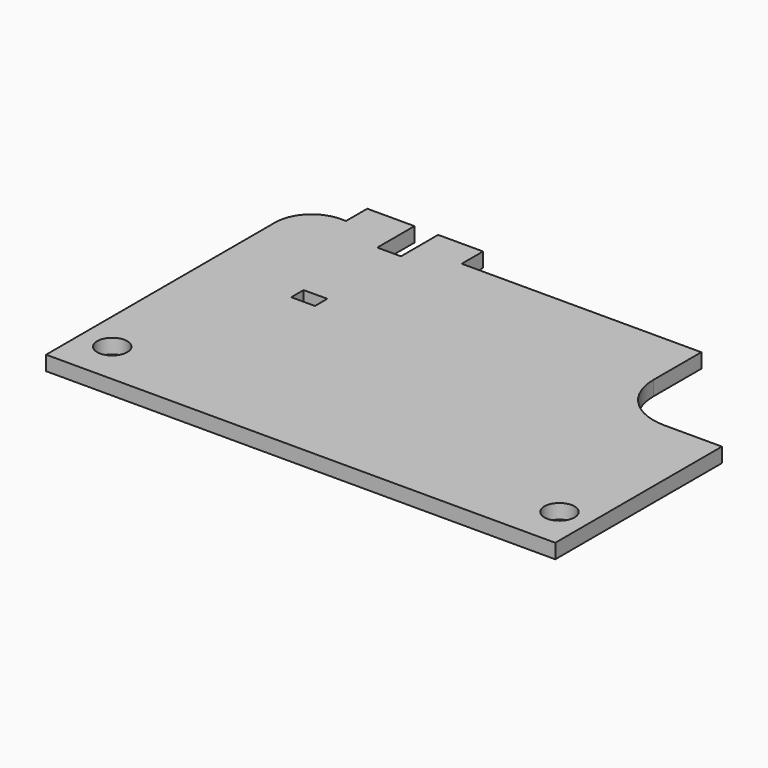
from build123d import *

# Parameters (mm, degrees)
F0_R     = 1.65
F1_DEPTH = 1.6
F2_R     = 4
F3_R     = 6
F4_W     = 2.6
F4_H     = 5.1
F4_H_2   = 1.7
F5_DEPTH = 1.601


with BuildPart() as f1:
    # F0 (on Top) → F1 (new body)
    with BuildSketch(Plane.XY):
        Polygon((0, 35.43), (0, 0), (55.88, 0), (55.88, 22.86), (43.56, 22.86), (43.56, 35.43), (17.27, 35.43), (17.27, 38.35), (4.57, 38.35), (4.57, 35.43), align=None)
        with Locations((3.5, 4.7)):
            Circle(F0_R, mode=Mode.SUBTRACT)
        with Locations((52.58, 4.7)):
            Circle(F0_R, mode=Mode.SUBTRACT)
    extrude(amount=F1_DEPTH)

    # F2
    f2_edges = [f1.edges().sort_by_distance(p)[0] for p in [
        (0, 35.43, 0.8),
    ]]
    fillet(f2_edges, radius=F2_R)

    # F3
    f3_edges = [f1.edges().sort_by_distance(p)[0] for p in [
        (43.56, 22.86, 0.8),
    ]]
    fillet(f3_edges, radius=F3_R)

    # F4 (on face) → F5 (cut, through all)
    with BuildSketch(Plane.XY.offset(1.6)):
        with Locations((11.045, 35.8)):
            Rectangle(F4_W, F4_H)
        with Locations((11.045, 22.3)):
            Rectangle(F4_W, F4_H_2)
    extrude(amount=-F5_DEPTH, mode=Mode.SUBTRACT)


solid = f1.part
